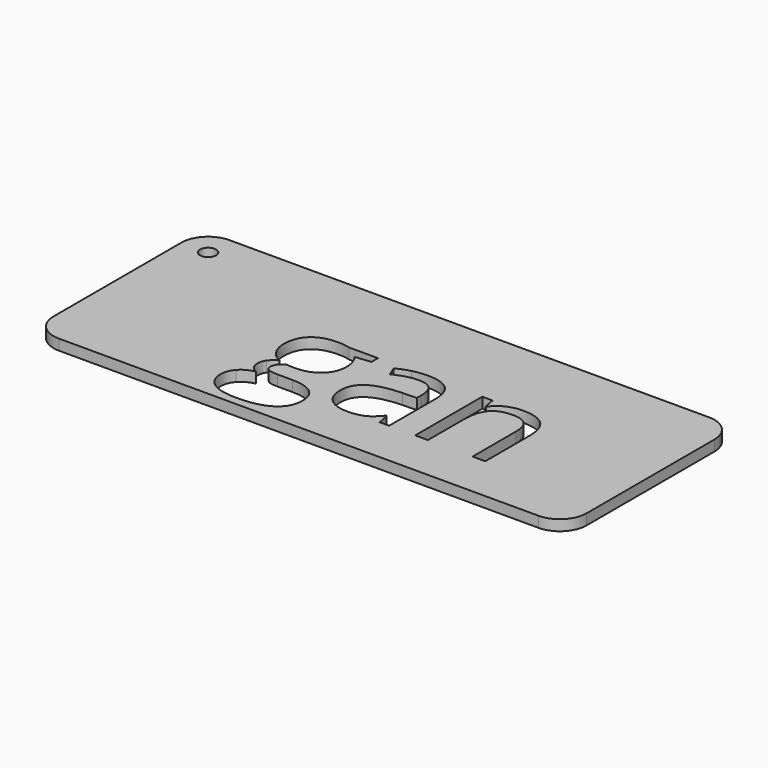
from build123d import *

# Parameters (mm, degrees)
F0_R     = 1.5
F1_DEPTH = 2


with BuildPart() as f1:
    # F0 (on Top) → F1 (new body)
    with BuildSketch(Plane.XY):
        with BuildLine():
            Line((95, 40), (5, 40))
            ThreePointArc((5, 40), (1.4644660941, 38.5355339059), (0, 35))
            Line((0, 35), (0, 5))
            ThreePointArc((0, 5), (1.4644660941, 1.4644660941), (5, 0))
            Line((5, 0), (95, 0))
            ThreePointArc((95, 0), (98.5355339059, 1.4644660941), (100, 5))
            Line((100, 5), (100, 35))
            ThreePointArc((100, 35), (98.5355339059, 38.5355339059), (95, 40))
        make_face()
        with BuildLine():
            Line((39.9559350041, 24.3510830572), (45.390617828, 24.3510830572))
            Line((45.390617828, 24.3510830572), (45.390617828, 22.8455290317))
            Line((45.390617828, 22.8455290317), (42.4804920591, 22.5012712515))
            add(Edge.make_bspline(
                [(42.4804920591, 22.5012712515), (42.8798310842, 22.0009499442), (43.196548242, 21.1885015829)],
                knots=[0, 0, 0, 1, 1, 1], degree=2))
            add(Edge.make_bspline(
                [(43.196548242, 21.1885015829), (43.5132653998, 20.3760532215), (43.5132653998, 19.3616402958)],
                knots=[0, 0, 0, 1, 1, 1], degree=2))
            add(Edge.make_bspline(
                [(43.5132653998, 19.3616402958), (43.5132653998, 17.0482280127), (41.9342697145, 15.6711968918)],
                knots=[0, 0, 0, 1, 1, 1], degree=2))
            add(Edge.make_bspline(
                [(41.9342697145, 15.6711968918), (40.3552740292, 14.2941657709), (37.6012117874, 14.2941657709)],
                knots=[0, 0, 0, 1, 1, 1], degree=2))
            add(Edge.make_bspline(
                [(37.6012117874, 14.2941657709), (36.8989259157, 14.2941657709), (36.2838520151, 14.4089183643)],
                knots=[0, 0, 0, 1, 1, 1], degree=2))
            add(Edge.make_bspline(
                [(36.2838520151, 14.4089183643), (34.7645276783, 13.6056502104), (34.7645276783, 12.3892727203)],
                knots=[0, 0, 0, 1, 1, 1], degree=2))
            add(Edge.make_bspline(
                [(34.7645276783, 12.3892727203), (34.7645276783, 11.7420680935), (35.2946846599, 11.4345311431)],
                knots=[0, 0, 0, 1, 1, 1], degree=2))
            add(Edge.make_bspline(
                [(35.2946846599, 11.4345311431), (35.8248416414, 11.1269941928), (37.1146607913, 11.1269941928)],
                knots=[0, 0, 0, 1, 1, 1], degree=2))
            Line((37.1146607913, 11.1269941928), (39.8962636556, 11.1269941928))
            add(Edge.make_bspline(
                [(39.8962636556, 11.1269941928), (42.4529514367, 11.1269941928), (43.8208023501, 10.0506148666)],
                knots=[0, 0, 0, 1, 1, 1], degree=2))
            add(Edge.make_bspline(
                [(43.8208023501, 10.0506148666), (45.1886532636, 8.9742355405), (45.1886532636, 6.9224591703)],
                knots=[0, 0, 0, 1, 1, 1], degree=2))
            add(Edge.make_bspline(
                [(45.1886532636, 6.9224591703), (45.1886532636, 4.3106901443), (43.0955659598, 2.940544179)],
                knots=[0, 0, 0, 1, 1, 1], degree=2))
            add(Edge.make_bspline(
                [(43.0955659598, 2.940544179), (41.002478656, 1.5703982137), (36.9861378867, 1.5703982137)],
                knots=[0, 0, 0, 1, 1, 1], degree=2))
            add(Edge.make_bspline(
                [(36.9861378867, 1.5703982137), (33.9015881759, 1.5703982137), (32.2307904159, 2.7179241478)],
                knots=[0, 0, 0, 1, 1, 1], degree=2))
            add(Edge.make_bspline(
                [(32.2307904159, 2.7179241478), (30.5599926558, 3.8654500819), (30.5599926558, 5.9631274894)],
                knots=[0, 0, 0, 1, 1, 1], degree=2))
            add(Edge.make_bspline(
                [(30.5599926558, 5.9631274894), (30.5599926558, 7.3952398552), (31.4780134031, 8.4440785589)],
                knots=[0, 0, 0, 1, 1, 1], degree=2))
            add(Edge.make_bspline(
                [(31.4780134031, 8.4440785589), (32.3960341504, 9.4929172627), (34.0576517029, 9.8647156653)],
                knots=[0, 0, 0, 1, 1, 1], degree=2))
            add(Edge.make_bspline(
                [(34.0576517029, 9.8647156653), (33.4563481135, 10.1355317858), (33.0478288809, 10.7092947528)],
                knots=[0, 0, 0, 1, 1, 1], degree=2))
            add(Edge.make_bspline(
                [(33.0478288809, 10.7092947528), (32.6393096484, 11.2830577198), (32.6393096484, 12.0450149401)],
                knots=[0, 0, 0, 1, 1, 1], degree=2))
            add(Edge.make_bspline(
                [(32.6393096484, 12.0450149401), (32.6393096484, 12.9033643388), (33.098320022, 13.5505689656)],
                knots=[0, 0, 0, 1, 1, 1], degree=2))
            add(Edge.make_bspline(
                [(33.098320022, 13.5505689656), (33.5573303957, 14.1977735924), (34.5487928027, 14.7990771819)],
                knots=[0, 0, 0, 1, 1, 1], degree=2))
            add(Edge.make_bspline(
                [(34.5487928027, 14.7990771819), (33.3278252088, 15.2993984891), (32.5612778849, 16.5043007199)],
                knots=[0, 0, 0, 1, 1, 1], degree=2))
            add(Edge.make_bspline(
                [(32.5612778849, 16.5043007199), (31.7947305609, 17.7092029507), (31.7947305609, 19.2606580136)],
                knots=[0, 0, 0, 1, 1, 1], degree=2))
            add(Edge.make_bspline(
                [(31.7947305609, 19.2606580136), (31.7947305609, 21.8402963134), (33.3438905719, 23.240277953)],
                knots=[0, 0, 0, 1, 1, 1], degree=2))
            add(Edge.make_bspline(
                [(33.3438905719, 23.240277953), (34.8930505829, 24.6402595926), (37.729734692, 24.6402595926)],
                knots=[0, 0, 0, 1, 1, 1], degree=2))
            add(Edge.make_bspline(
                [(37.729734692, 24.6402595926), (38.9644725971, 24.6402595926), (39.9559350041, 24.3510830572)],
                knots=[0, 0, 0, 1, 1, 1], degree=2))
        make_face(mode=Mode.SUBTRACT)
        with BuildLine():
            Line((60.0514091618, 8.6299777602), (58.2842192234, 8.6299777602))
            Line((58.2842192234, 8.6299777602), (57.8114385385, 10.8699483836))
            Line((57.8114385385, 10.8699483836), (57.6966859451, 10.8699483836))
            add(Edge.make_bspline(
                [(57.6966859451, 10.8699483836), (56.5216193886, 9.3919349805), (55.3534379877, 8.8663681027)],
                knots=[0, 0, 0, 1, 1, 1], degree=2))
            add(Edge.make_bspline(
                [(55.3534379877, 8.8663681027), (54.1852565868, 8.3408012249), (52.4318369595, 8.3408012249)],
                knots=[0, 0, 0, 1, 1, 1], degree=2))
            add(Edge.make_bspline(
                [(52.4318369595, 8.3408012249), (50.0954741577, 8.3408012249), (48.7689341779, 9.5479985075)],
                knots=[0, 0, 0, 1, 1, 1], degree=2))
            add(Edge.make_bspline(
                [(48.7689341779, 9.5479985075), (47.4423941981, 10.7551957902), (47.4423941981, 12.9768059986)],
                knots=[0, 0, 0, 1, 1, 1], degree=2))
            add(Edge.make_bspline(
                [(47.4423941981, 12.9768059986), (47.4423941981, 17.7367435731), (55.0573762967, 17.96624876)],
                knots=[0, 0, 0, 1, 1, 1], degree=2))
            Line((55.0573762967, 17.96624876), (57.7242265675, 18.053460731))
            Line((57.7242265675, 18.053460731), (57.7242265675, 19.0311528268))
            add(Edge.make_bspline(
                [(57.7242265675, 19.0311528268), (57.7242265675, 20.8809646325), (56.9301386211, 21.7622645499)],
                knots=[0, 0, 0, 1, 1, 1], degree=2))
            add(Edge.make_bspline(
                [(56.9301386211, 21.7622645499), (56.1360506747, 22.6435644673), (54.3826310475, 22.6435644673)],
                knots=[0, 0, 0, 1, 1, 1], degree=2))
            add(Edge.make_bspline(
                [(54.3826310475, 22.6435644673), (52.4180666483, 22.6435644673), (49.9394106307, 21.4409572884)],
                knots=[0, 0, 0, 1, 1, 1], degree=2))
            Line((49.9394106307, 21.4409572884), (49.2049940329, 23.2632284717))
            add(Edge.make_bspline(
                [(49.2049940329, 23.2632284717), (50.3662902782, 23.8920726836), (51.7502065547, 24.250100775)],
                knots=[0, 0, 0, 1, 1, 1], degree=2))
            add(Edge.make_bspline(
                [(51.7502065547, 24.250100775), (53.1341228312, 24.6081288665), (54.529514367, 24.6081288665)],
                knots=[0, 0, 0, 1, 1, 1], degree=2))
            add(Edge.make_bspline(
                [(54.529514367, 24.6081288665), (57.3386578537, 24.6081288665), (58.6950335078, 23.361915702)],
                knots=[0, 0, 0, 1, 1, 1], degree=2))
            add(Edge.make_bspline(
                [(58.6950335078, 23.361915702), (60.0514091618, 22.1157025376), (60.0514091618, 19.3616402958)],
                knots=[0, 0, 0, 1, 1, 1], degree=2))
            Line((60.0514091618, 19.3616402958), (60.0514091618, 8.6299777602))
        make_face(mode=Mode.SUBTRACT)
        with BuildLine():
            Line((78.0951069494, 8.6299777602), (75.7128431103, 8.6299777602))
            Line((75.7128431103, 8.6299777602), (75.7128431103, 18.80164764))
            add(Edge.make_bspline(
                [(75.7128431103, 18.80164764), (75.7128431103, 20.7203110018), (74.8384283485, 21.6681674233)],
                knots=[0, 0, 0, 1, 1, 1], degree=2))
            add(Edge.make_bspline(
                [(74.8384283485, 21.6681674233), (73.9640135867, 22.6160238449), (72.095841366, 22.6160238449)],
                knots=[0, 0, 0, 1, 1, 1], degree=2))
            add(Edge.make_bspline(
                [(72.095841366, 22.6160238449), (69.6309556596, 22.6160238449), (68.4834297255, 21.2825987095)],
                knots=[0, 0, 0, 1, 1, 1], degree=2))
            add(Edge.make_bspline(
                [(68.4834297255, 21.2825987095), (67.3359037914, 19.9491735741), (67.3359037914, 16.8783941745)],
                knots=[0, 0, 0, 1, 1, 1], degree=2))
            Line((67.3359037914, 16.8783941745), (67.3359037914, 8.6299777602))
            Line((67.3359037914, 8.6299777602), (64.9536399523, 8.6299777602))
            Line((64.9536399523, 8.6299777602), (64.9536399523, 24.3510830572))
            Line((64.9536399523, 24.3510830572), (66.890663729, 24.3510830572))
            Line((66.890663729, 24.3510830572), (67.2762324429, 22.1983244049))
            Line((67.2762324429, 22.1983244049), (67.3909850363, 22.1983244049))
            add(Edge.make_bspline(
                [(67.3909850363, 22.1983244049), (68.1254016341, 23.3596206502), (69.4450564583, 23.9999401214)],
                knots=[0, 0, 0, 1, 1, 1], degree=2))
            add(Edge.make_bspline(
                [(69.4450564583, 23.9999401214), (70.7647112825, 24.6402595926), (72.3850179014, 24.6402595926)],
                knots=[0, 0, 0, 1, 1, 1], degree=2))
            add(Edge.make_bspline(
                [(72.3850179014, 24.6402595926), (75.2262921142, 24.6402595926), (76.6606995318, 23.2701136273)],
                knots=[0, 0, 0, 1, 1, 1], degree=2))
            add(Edge.make_bspline(
                [(76.6606995318, 23.2701136273), (78.0951069494, 21.899967662), (78.0951069494, 18.8842695072)],
                knots=[0, 0, 0, 1, 1, 1], degree=2))
            Line((78.0951069494, 18.8842695072), (78.0951069494, 8.6299777602))
        make_face(mode=Mode.SUBTRACT)
        with Locations((5, 35)):
            Circle(F0_R, mode=Mode.SUBTRACT)
    extrude(amount=F1_DEPTH)


solid = f1.part
